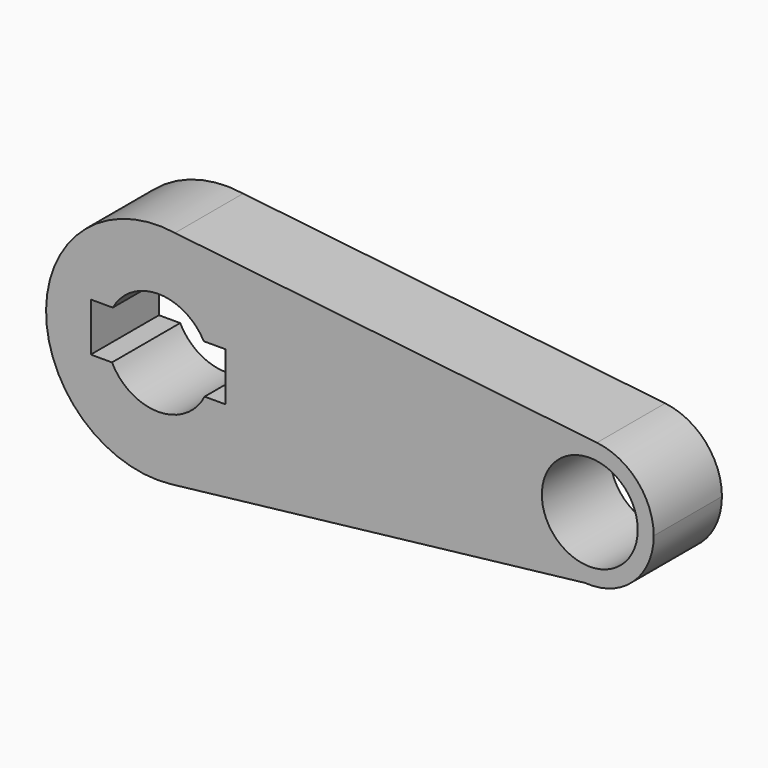
from build123d import *

# Parameters (mm, degrees)
F0_R     = 14.2875
F1_DEPTH = 25.4


with BuildPart() as f1:
    # F0 (on Front) → F1 (new body)
    with BuildSketch(Plane.XZ):
        with BuildLine():
            ThreePointArc((3.828865, -33.216132), (24.959907, -22.248027), (33.436083, 0))
            ThreePointArc((33.436083, 0), (25.336953, 21.817664), (4.963222, 33.065663))
            ThreePointArc((4.963222, 33.065663), (-33.431187, 0.572147), (3.828865, -33.216132))
        make_face()
        with BuildLine():
            ThreePointArc((-13.559361, 7.449858), (0, 15.471156), (13.559361, 7.449858))
            Line((13.559361, 7.449858), (20.06432, 7.449858))
            Line((20.06432, 7.449858), (20.06432, -6.998351))
            Line((20.06432, -6.998351), (13.797816, -6.998351))
            ThreePointArc((13.797816, -6.998351), (0, -15.471156), (-13.797816, -6.998351))
            Line((-13.797816, -6.998351), (-20.11976, -6.998351))
            Line((-20.11976, -6.998351), (-20.11976, 7.449858))
            Line((-20.11976, 7.449858), (-13.559361, 7.449858))
        make_face(mode=Mode.SUBTRACT)
        with BuildLine():
            ThreePointArc((4.963222, 33.065663), (25.336953, 21.817664), (33.436083, 0))
            ThreePointArc((33.436083, 0), (24.959907, -22.248027), (3.828865, -33.216132))
            Line((3.828865, -33.216132), (127.166579, -18.99884))
            ThreePointArc((127.166579, -18.99884), (109.593453, 1.762081), (130.690084, 18.930738))
            Line((130.690084, 18.930738), (4.963222, 33.065663))
        make_face()
        with BuildLine():
            ThreePointArc((147.611783, 0), (142.764717, 12.695637), (130.690084, 18.930738))
            ThreePointArc((130.690084, 18.930738), (109.593453, 1.762081), (127.166579, -18.99884))
            ThreePointArc((127.166579, -18.99884), (141.52951, -13.954948), (147.611783, 0))
        make_face()
        with Locations((128.561783, 0)):
            Circle(F0_R, mode=Mode.SUBTRACT)
    extrude(amount=F1_DEPTH)


solid = f1.part
